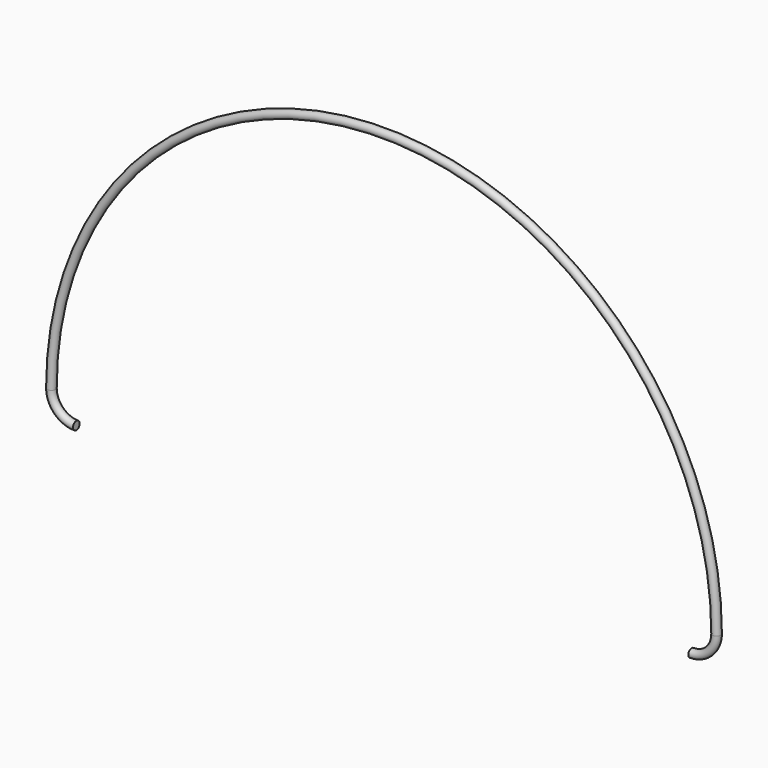
from build123d import *

# Parameters (mm, degrees)
F0_R     = 1.27
F2_W     = 246.2176010013
F2_H     = 106.0751006007
F3_DEPTH = 25.4
F4_DEPTH = 51.308
F6_ANGLE = 90
F7_R     = 1.27
F8_ANGLE = 90


with BuildPart() as f1:
    # F0 (on Top) → F1 (revolve)
    with BuildSketch(Plane.XY):
        with Locations((-101.6, 0)):
            Circle(F0_R)
    revolve(axis=Axis((0, 8.5233533755, 0), (0, 1, 0)))

    # F2 (on Front) → F3 (cut)
    with BuildSketch(Plane.XZ):
        with Locations((10.4999132454, -53.0375503004)):
            Rectangle(F2_W, F2_H)
    extrude(amount=-F3_DEPTH, mode=Mode.SUBTRACT)

    # F2 (on Front) → F4 (cut)
    with BuildSketch(Plane.XZ):
        with Locations((10.4999132454, -53.0375503004)):
            Rectangle(F2_W, F2_H)
    extrude(amount=F4_DEPTH, mode=Mode.SUBTRACT)

    # F5 (on face) → F6 (revolve)
    with BuildSketch(Plane(origin=(0, 0, 0), x_dir=(1, 0, 0), z_dir=(0, 0, -1))):
        with BuildLine():
            ThreePointArc((100.33, 0), (101.6, -1.27), (102.87, 0))
            ThreePointArc((102.87, 0), (101.6, 1.27), (100.33, 0))
        make_face()
    revolve(axis=Axis((93.98, -0.709965534, 0), (0, 1, 0)), revolution_arc=F6_ANGLE)

    # F7 (on face) → F8 (revolve)
    with BuildSketch(Plane(origin=(0, 0, 0), x_dir=(1, 0, 0), z_dir=(0, 0, -1))):
        with Locations((-101.6, 0)):
            Circle(F7_R)
    revolve(axis=Axis((-93.98, -1.0185919236, 0), (0, -1, 0)), revolution_arc=F8_ANGLE)


solid = f1.part
